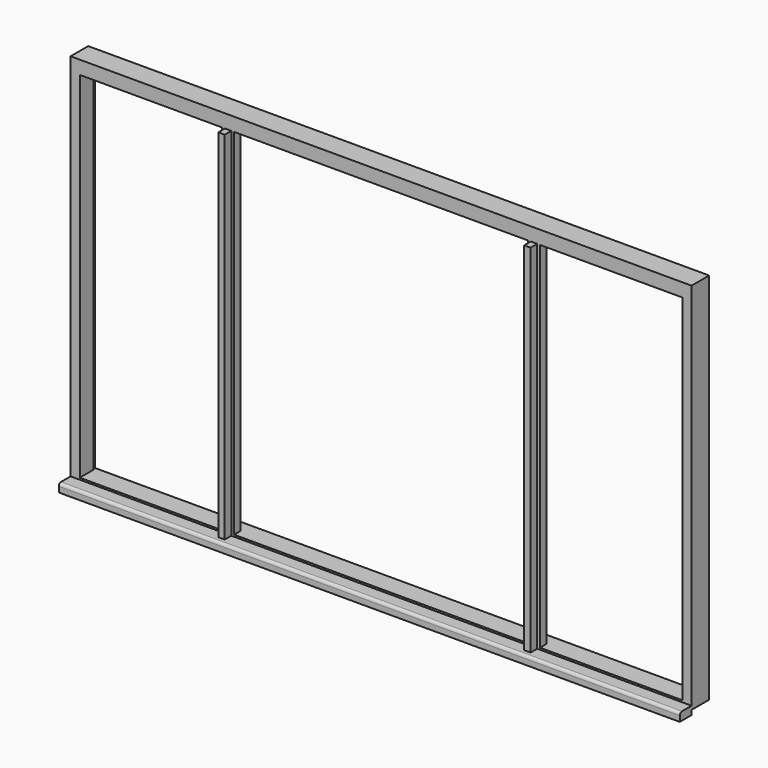
from build123d import *

# Parameters (mm, degrees)
F0_W      = 50
F0_H      = 95
F1_DEPTH  = 1930
F2_W      = 1690
F2_H      = 110
F3_DEPTH  = 30
F4_W      = 1690
F4_H      = 45
F5_DEPTH  = 80
F6_DEPTH  = 25
F7_R      = 15
F9_DEPTH  = 2033
F11_DEPTH = 50
F12_DEPTH = 1640


with BuildPart() as f1:
    # F0 (on Top) → F1 (new body)
    with BuildSketch(Plane.XY):
        Polygon((-815, 0), (-800, 0), (-800, 45), (-865, 45), (-865, 0), (-850, 0), (-850, -45), (-815, -45), align=None)
        with Locations((-1665, 47.5)):
            Rectangle(F0_W, F0_H)
    extrude(amount=F1_DEPTH)

    # F2 (on face) → F3 (join)
    with BuildSketch(Plane(origin=(0, 0, 0), x_dir=(1, 0, 0), z_dir=(0, 0, -1))):
        with Locations((-845, -55)):
            Rectangle(F2_W, F2_H)
    extrude(amount=F3_DEPTH)

    # F4 (on face) → F5 (join)
    with BuildSketch(Plane.XZ):
        with Locations((-845, -32.5)):
            Rectangle(F4_W, F4_H)
    extrude(amount=F5_DEPTH)

    # F0 (on Top) → F6 (join)
    with BuildSketch(Plane.XY):
        Polygon((-815, 0), (-800, 0), (-800, 45), (-865, 45), (-865, 0), (-850, 0), (-850, -45), (-815, -45), align=None)
        with Locations((-1665, 47.5)):
            Rectangle(F0_W, F0_H)
    extrude(amount=-F6_DEPTH)

    # F7
    f7_edges = [f1.edges().sort_by_distance(p)[0] for p in [
        (-845, -80, -10),
    ]]
    fillet(f7_edges, radius=F7_R)

    # F8 (on face) → F9 (join)
    with BuildSketch(Plane(origin=(0, 0, -30), x_dir=(1, 0, 0), z_dir=(0, 0, -1))):
        Polygon((-1690, -90), (-1690, -110), (-1690, -120), (-1653, -120), (-1653, -110), (-1646, -110), (-1646, -90), align=None)
    extrude(amount=-F9_DEPTH)

    # F10 (on face) → F11 (join, through all)
    with BuildSketch(Plane.YZ.offset(-1640)):
        Polygon((0, 2003), (0, 1930), (95, 1930), (95, 1936.5), (110, 1936.5), (110, 1943), (120, 1943), (120, 2003), align=None)
    extrude(amount=-F11_DEPTH)

    # F10 (on face) → F12 (join, through all)
    with BuildSketch(Plane.YZ.offset(-1640)):
        Polygon((0, 2003), (0, 1930), (95, 1930), (95, 1936.5), (110, 1936.5), (110, 1943), (120, 1943), (120, 2003), align=None)
    extrude(amount=F12_DEPTH)

    # F13: F1 across plane


with BuildPart() as f1_1:
    add(f1.part)
    add(f1.part.mirror(Plane.YZ))


solid = f1_1.part
